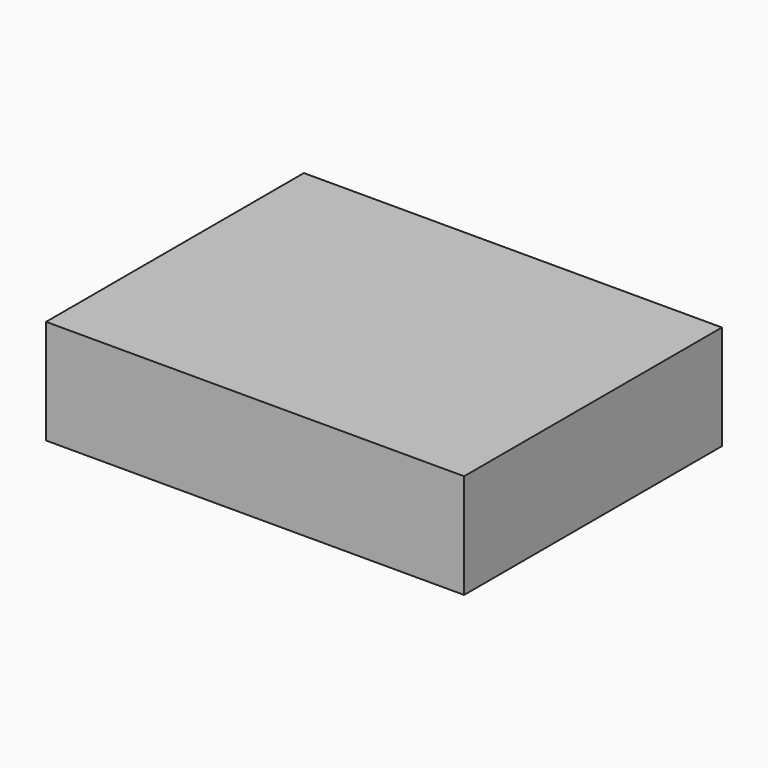
from build123d import *

# Parameters (mm, degrees)
EXTRUDE010_DEPTH           = 20
EXTRUDE010_PLACEMENT_ANGLE = 300
BOX140_W                   = 48
BOX140_H                   = 12
BOX140_DEPTH               = 37
CUT028_PLACEMENT_ANGLE     = 90


with BuildPart() as extrude010:
    # Sketch021 (on Box) → Extrude010 (new body)
    with BuildSketch(Plane.XZ):
        with BuildLine():
            ThreePointArc((7.277422, 6.106482), (0, 9.5), (-7.277422, 6.106482))
            Line((-7.277422, 6.106482), (-5.1708, 4.338816))
            ThreePointArc((5.1708, 4.338816), (0, 6.75), (-5.1708, 4.338816))
            Line((5.1708, 4.338816), (7.277422, 6.106482))
        make_face()
        with BuildLine():
            ThreePointArc((-8.92708, 3.249192), (-8.227241, -4.75), (-1.649658, -9.355674))
            Line((-1.172125, -6.647452), (-1.649658, -9.355674))
            ThreePointArc((-6.342925, 2.308636), (-5.845671, -3.375), (-1.172125, -6.647452))
            Line((-8.92708, 3.249192), (-6.342925, 2.308636))
        make_face()
        with BuildLine():
            ThreePointArc((1.649658, -9.355674), (8.227241, -4.75), (8.92708, 3.249192))
            Line((6.342925, 2.308636), (8.92708, 3.249192))
            ThreePointArc((1.172125, -6.647452), (5.845671, -3.375), (6.342925, 2.308636))
            Line((1.172125, -6.647452), (1.649658, -9.355674))
        make_face()
    extrude(amount=EXTRUDE010_DEPTH)


with BuildPart() as extrude010_1:
    # Extrude010 placement: moved
    add(extrude010.part.moved(Location((12.4, 2.6, 25.087942))).rotate(Axis((12.4, 2.6, 25.087942), (0, -1, 0)), EXTRUDE010_PLACEMENT_ANGLE))


with BuildPart() as cut028:
    # Box140 → Box140 (new body)
    with BuildSketch(Plane.XY):
        with Locations((24, 6)):
            Rectangle(BOX140_W, BOX140_H)
    extrude(amount=BOX140_DEPTH)

    # Cut028: cut Extrude010
    add(extrude010_1.part, mode=Mode.SUBTRACT)


with BuildPart() as cut028_1:
    # Cut028 placement: moved
    add(cut028.part.moved(Location((-26, 37, 0))).rotate(Axis((-26, 37, 0), (1, 0, 0)), CUT028_PLACEMENT_ANGLE))


solid = cut028_1.part
